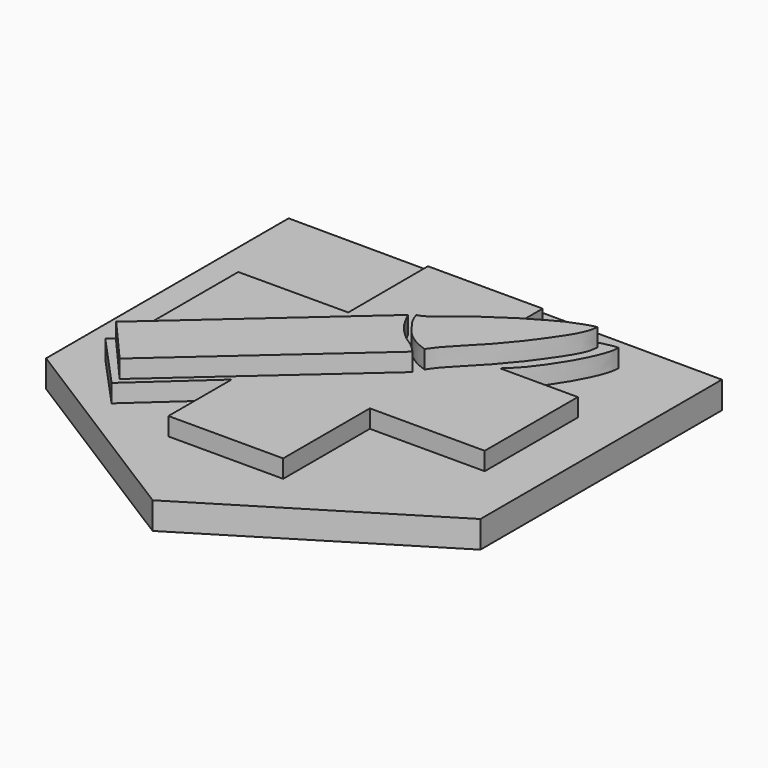
from build123d import *

# Parameters (mm, degrees)
F1_DEPTH = 3
F3_DEPTH = 2
F5_DEPTH = 2


with BuildPart() as f1:
    # F0 (on Top) → F1 (new body)
    with BuildSketch(Plane.XY):
        with BuildLine():
            add(Edge.make_bspline(
                [(11.0671931449, 59.2885849332), (27.1602265797, 59.2278252135), (43.2532600144, 59.1670654938), (59.3462934492, 59.106305774)],
                knots=[0, 0, 0, 0, 48.2794444032, 48.2794444032, 48.2794444032, 48.2794444032], degree=3))
            add(Edge.make_bspline(
                [(11.0671931449, 59.2885849332), (11.0671931449, 48.0633100955), (11.0671931449, 36.8380352577), (11.0671931449, 25.61276042)],
                knots=[0, 0, 0, 0, 33.6758245133, 33.6758245133, 33.6758245133, 33.6758245133], degree=3))
            add(Edge.make_bspline(
                [(11.0671931449, 25.61276042), (19.0264820309, 20.5963245083), (26.9857709169, 15.5798885967), (34.9450598029, 10.563452685)],
                knots=[0, 0, 0, 0, 28.2247086688, 28.2247086688, 28.2247086688, 28.2247086688], degree=3))
            add(Edge.make_bspline(
                [(34.9450598029, 10.563452685), (43.0788043517, 15.5682044628), (51.2125489004, 20.5729562405), (59.3462934492, 25.5777080183)],
                knots=[0, 0, 0, 0, 28.6504461864, 28.6504461864, 28.6504461864, 28.6504461864], degree=3))
            add(Edge.make_bspline(
                [(59.3462934492, 59.106305774), (59.3462934492, 47.9301065221), (59.3462934492, 36.7539072702), (59.3462934492, 25.5777080183)],
                knots=[0, 0, 0, 0, 33.5285977557, 33.5285977557, 33.5285977557, 33.5285977557], degree=3))
        make_face()
    extrude(amount=F1_DEPTH)

    # F2 (on face) → F3 (join)
    with BuildSketch(Plane.XY.offset(3)):
        with BuildLine():
            add(Edge.make_bspline(
                [(28.5541154444, 45.7122586668), (28.5442241778, 49.4115737577), (28.5343329112, 53.1108888487), (28.5244416445, 56.8102039397)],
                knots=[0, 0, 0, 0, 11.0979849439, 11.0979849439, 11.0979849439, 11.0979849439], degree=3))
            add(Edge.make_bspline(
                [(16.3540448993, 45.6901788712), (20.420735081, 45.697538803), (24.4874252627, 45.7048987349), (28.5541154444, 45.7122586668)],
                knots=[0, 0, 0, 0, 12.2000905252, 12.2000905252, 12.2000905252, 12.2000905252], degree=3))
            add(Edge.make_bspline(
                [(16.3540448993, 32.8154563904), (16.3540448993, 37.1070305506), (16.3540448993, 41.3986047109), (16.3540448993, 45.6901788712)],
                knots=[0, 0, 0, 0, 12.8747224808, 12.8747224808, 12.8747224808, 12.8747224808], degree=3))
            add(Edge.make_bspline(
                [(19.8224373162, 32.8154563904), (18.6663065106, 32.8154563904), (17.510175705, 32.8154563904), (16.3540448993, 32.8154563904)],
                knots=[0, 0, 0, 0, 3.4683924168, 3.4683924168, 3.4683924168, 3.4683924168], degree=3))
            add(Edge.make_bspline(
                [(15.1688018814, 28.7022646517), (16.720013693, 30.0733285646), (18.2712255046, 31.4443924775), (19.8224373162, 32.8154563904)],
                knots=[0, 0, 0, 0, 6.2108509111, 6.2108509111, 6.2108509111, 6.2108509111], degree=3))
            add(Edge.make_bspline(
                [(20.795583725, 22.5514788181), (18.9199897771, 24.6017407626), (17.0443958292, 26.6520027071), (15.1688018814, 28.7022646517)],
                knots=[0, 0, 0, 0, 8.3362365781, 8.3362365781, 8.3362365781, 8.3362365781], degree=3))
            add(Edge.make_bspline(
                [(28.5244416445, 29.5506473631), (25.9481556714, 27.2175911814), (23.3718696982, 24.8845349997), (20.795583725, 22.5514788181)],
                knots=[0, 0, 0, 0, 10.4270611901, 10.4270611901, 10.4270611901, 10.4270611901], degree=3))
            add(Edge.make_bspline(
                [(28.5244416445, 20.7798555493), (28.5244416445, 23.7034528206), (28.5244416445, 26.6270500918), (28.5244416445, 29.5506473631)],
                knots=[0, 0, 0, 0, 8.7707918137, 8.7707918137, 8.7707918137, 8.7707918137], degree=3))
            add(Edge.make_bspline(
                [(41.2692762911, 20.7798555493), (37.0209980756, 20.7798555493), (32.7727198601, 20.7798555493), (28.5244416445, 20.7798555493)],
                knots=[0, 0, 0, 0, 12.7448346466, 12.7448346466, 12.7448346466, 12.7448346466], degree=3))
            add(Edge.make_bspline(
                [(41.2692762911, 32.8154563904), (41.2692762911, 28.8035894434), (41.2692762911, 24.7917224964), (41.2692762911, 20.7798555493)],
                knots=[0, 0, 0, 0, 12.035600841, 12.035600841, 12.035600841, 12.035600841], degree=3))
            add(Edge.make_bspline(
                [(54.0289506316, 32.8154563904), (49.7757258515, 32.8154563904), (45.5225010713, 32.8154563904), (41.2692762911, 32.8154563904)],
                knots=[0, 0, 0, 0, 12.7596743405, 12.7596743405, 12.7596743405, 12.7596743405], degree=3))
            add(Edge.make_bspline(
                [(54.0289506316, 45.741930604), (54.0289506316, 41.4331058661), (54.0289506316, 37.1242811282), (54.0289506316, 32.8154563904)],
                knots=[0, 0, 0, 0, 12.9264742136, 12.9264742136, 12.9264742136, 12.9264742136], degree=3))
            add(Edge.make_bspline(
                [(45.3939139843, 45.741930604), (48.2722595334, 45.741930604), (51.1506050825, 45.741930604), (54.0289506316, 45.741930604)],
                knots=[0, 0, 0, 0, 8.6350366473, 8.6350366473, 8.6350366473, 8.6350366473], degree=3))
            add(Edge.make_bspline(
                [(51.0022379458, 55.1781579852), (50.9871454202, 54.8760789501), (50.9492122653, 54.1168414871), (50.0167587141, 51.9122681359), (49.0410576538, 50.2362012588), (47.7624509616, 48.3038639045), (46.6810870919, 46.9612553645), (45.8234568907, 46.148831819), (45.3939139843, 45.741930604)],
                knots=[0, 0, 0, 0, 0.1242508102, 0.3122887025, 0.4890354969, 0.6744951269, 0.8369713321, 1, 1, 1, 1], degree=3))
            add(Edge.make_bspline(
                [(41.2692762911, 50.6232492626), (41.4681483995, 50.7946102801), (41.978340298, 51.2342244804), (43.8428750945, 52.4530570659), (45.578161279, 53.3564511541), (47.4048472329, 54.1737185126), (48.9800400423, 54.873378879), (50.5615877202, 55.1869726946), (50.8911084003, 55.1803810061), (51.0022379458, 55.1781579852)],
                knots=[0, 0, 0, 0, 0.1115801276, 0.2862506845, 0.4549970621, 0.6198962034, 0.7787875681, 0.9253969827, 1, 1, 1, 1], degree=3))
            add(Edge.make_bspline(
                [(41.2692762911, 56.8102039397), (41.2692762911, 54.747885714), (41.2692762911, 52.6855674883), (41.2692762911, 50.6232492626)],
                knots=[0, 0, 0, 0, 6.1869546771, 6.1869546771, 6.1869546771, 6.1869546771], degree=3))
            add(Edge.make_bspline(
                [(28.5244416445, 56.8102039397), (32.7727198601, 56.8102039397), (37.0209980756, 56.8102039397), (41.2692762911, 56.8102039397)],
                knots=[0, 0, 0, 0, 12.7448346466, 12.7448346466, 12.7448346466, 12.7448346466], degree=3))
        make_face()
    extrude(amount=F3_DEPTH)

    # F4 (on face) → F5 (join)
    with BuildSketch(Plane.XY.offset(5)):
        with BuildLine():
            add(Edge.make_bspline(
                [(35.8568057418, 46.0094958544), (36.0317157188, 46.0701763186), (36.4297957335, 46.2003354626), (37.1864233034, 46.6726155181), (37.9859530046, 47.4123252193), (38.684220276, 47.9579062137), (39.5978366881, 48.6639690688), (40.5662368593, 49.3935938732), (42.4270495168, 50.6239095496), (43.3956261519, 51.2641930678), (44.5928458585, 51.9136521572), (45.7614362272, 52.6214397624), (46.8939566816, 53.2129220638), (47.9158808974, 53.5753203598), (48.6666958305, 53.8767219281), (49.2486495268, 54.0088859734), (49.547854811, 54.0772415698)],
                knots=[0, 0, 0, 0, 0.0516585621, 0.1154304858, 0.1859697061, 0.2500607567, 0.3209142372, 0.3972341946, 0.4974503857, 0.5717078044, 0.6492089827, 0.7288579814, 0.8055285067, 0.875409065, 0.9359621135, 1, 1, 1, 1], degree=3))
            add(Edge.make_bspline(
                [(40.4100008309, 41.4772853255), (40.1427297174, 41.566451955), (39.5698749881, 41.7575669795), (38.5611360167, 42.3172730775), (37.6153225158, 43.08896958), (36.8712828684, 44.1355753724), (36.2520137722, 44.9300470977), (35.9912628327, 45.6422473966), (35.8568057418, 46.0094958544)],
                knots=[0, 0, 0, 0, 0.1480795284, 0.3173858074, 0.4935656147, 0.672152309, 0.8309442455, 1, 1, 1, 1], degree=3))
            add(Edge.make_bspline(
                [(49.547854811, 54.0772415698), (49.5152026803, 53.7874605081), (49.4499641664, 53.2084818803), (49.0989835668, 52.4043858786), (48.5064178832, 51.2917469226), (47.5589183385, 49.9971352805), (46.7794034559, 48.7976853557), (45.7999311462, 47.5884183596), (44.7693780121, 46.3288788388), (43.750268148, 45.2259326502), (42.7729784172, 44.2975083271), (42.0764861952, 43.4341941921), (41.2224654547, 42.6219891367), (40.8459045869, 42.0950296588), (40.5585529156, 41.6878070457), (40.4100008309, 41.4772853255)],
                knots=[0, 0, 0, 0, 0.0655087235, 0.1308855405, 0.2100996498, 0.2998368838, 0.3845870022, 0.4724072264, 0.5628018265, 0.6497017278, 0.7310722295, 0.8063658322, 0.8820915946, 0.9390449363, 1, 1, 1, 1], degree=3))
        make_face()
        with BuildLine():
            add(Edge.make_bspline(
                [(35.27790308, 45.5761998892), (35.3882946215, 45.3549721851), (35.6258414072, 44.8973547708), (36.0486432773, 44.1340473188), (36.5594531624, 43.374918294), (37.3854774785, 42.5244904822), (38.0605965058, 41.9367271606), (38.8257774231, 41.5003145811), (39.4865628498, 40.9239153063), (39.9012565613, 40.4437407851)],
                knots=[0, 0, 0, 0, 0.1253693984, 0.2588600966, 0.3975887681, 0.5542344561, 0.6898015766, 0.8208467818, 1, 1, 1, 1], degree=3))
            add(Edge.make_bspline(
                [(35.27790308, 45.5761998892), (28.9609463265, 39.9766570578), (22.6439895729, 34.3771142264), (16.3270328194, 28.777571395)],
                knots=[0, 0, 0, 0, 25.3244822833, 25.3244822833, 25.3244822833, 25.3244822833], degree=3))
            add(Edge.make_bspline(
                [(16.3270328194, 28.777571395), (17.8440753371, 27.0394521455), (19.3611178547, 25.301332896), (20.8781603724, 23.5632136464)],
                knots=[0, 0, 0, 0, 6.9211479347, 6.9211479347, 6.9211479347, 6.9211479347], degree=3))
            add(Edge.make_bspline(
                [(20.8781603724, 23.5632136464), (27.2191924353, 29.190056026), (33.5602244983, 34.8168984056), (39.9012565613, 40.4437407851)],
                knots=[0, 0, 0, 0, 25.4328603404, 25.4328603404, 25.4328603404, 25.4328603404], degree=3))
        make_face()
    extrude(amount=F5_DEPTH)


solid = f1.part
